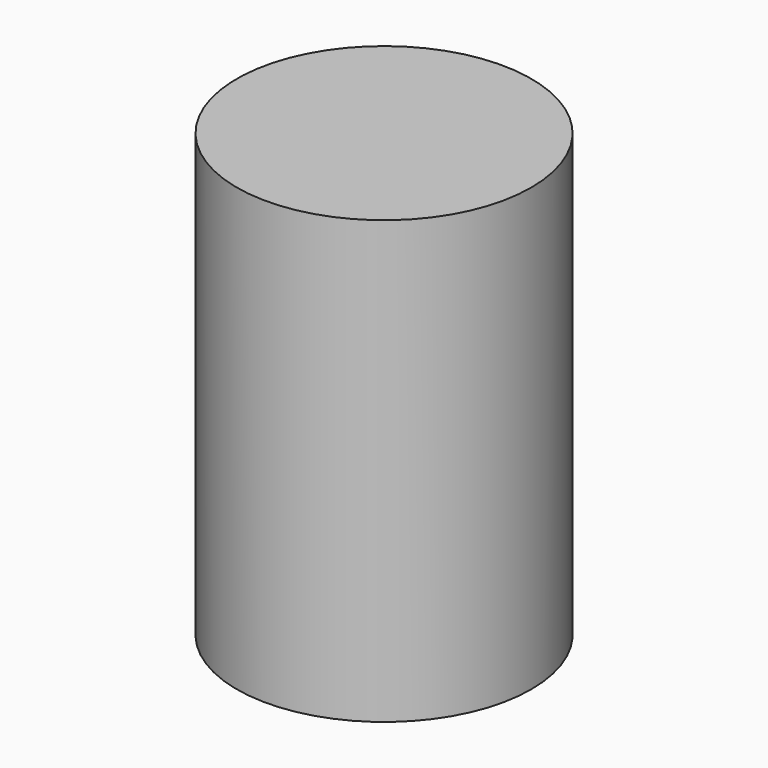
from build123d import *

# Parameters (mm, degrees)
F2_R     = 50
F3_DEPTH = 150
F4_R     = 36
F4_R_2   = 35
F5_DEPTH = 1


with BuildPart() as f3:
    # F2 (on Top) → F3 (new body)
    with BuildSketch(Plane.XY):
        Circle(F2_R)
    extrude(amount=F3_DEPTH)

    # F4 (on Top) → F5 (cut)
    with BuildSketch(Plane.XY):
        Circle(F4_R)
        Circle(F4_R_2, mode=Mode.SUBTRACT)
    extrude(amount=F5_DEPTH, mode=Mode.SUBTRACT)


solid = f3.part
